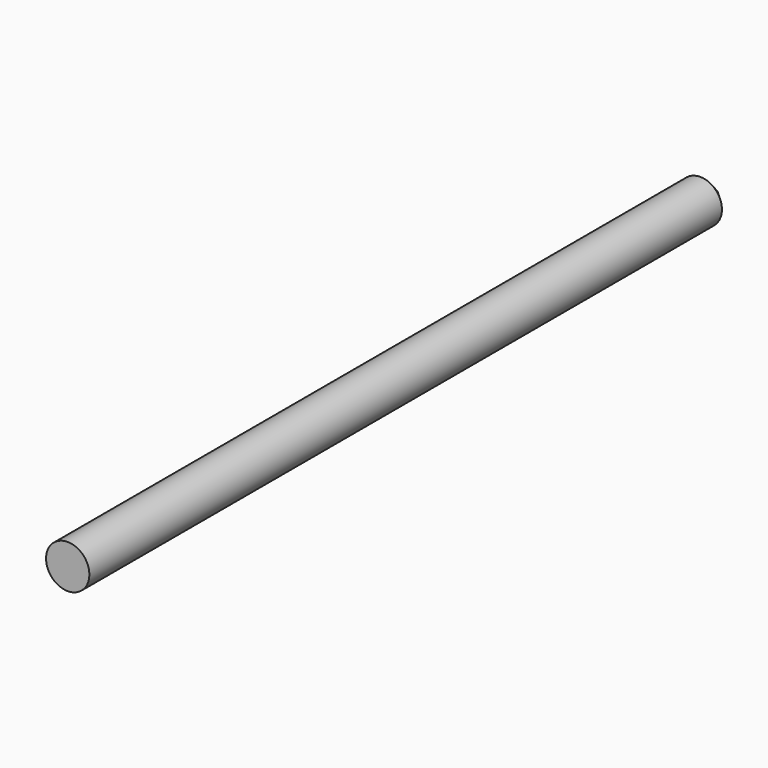
from build123d import *

# Parameters (mm, degrees)
SKETCH_R     = 4
PAD_DEPTH    = 150
CHAMFER_SIZE = 4


with BuildPart() as part:
    # Sketch → Pad (new body)
    with BuildSketch(Plane.XZ):
        Circle(SKETCH_R)
    extrude(amount=PAD_DEPTH)

    # Chamfer
    chamfer_edges = [part.edges().sort_by_distance(p)[0] for p in [
        (-4, 0, 0),
    ]]
    chamfer(chamfer_edges, length=CHAMFER_SIZE)


solid = part.part
